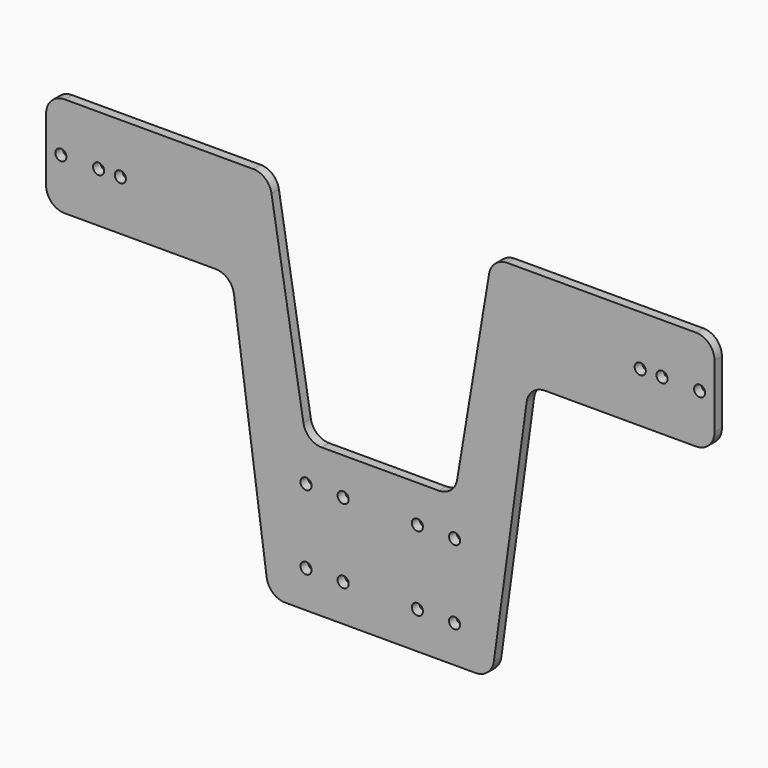
from build123d import *

# Parameters (mm, degrees)
F0_R     = 1.5
F1_DEPTH = 2.5
F2_R     = 5


with BuildPart() as f1:
    # F0 (on Front) → F1 (new body)
    with BuildSketch(Plane.XZ):
        Polygon((-90, -20), (-90, -33.5), (-90, -47), (-40, -47), (-30, -120), (0, -120), (0, -80), (-20, -80), (-30, -20), align=None)
        with Locations((-20, -110)):
            Circle(F0_R, mode=Mode.SUBTRACT)
        with Locations((-10, -110)):
            Circle(F0_R, mode=Mode.SUBTRACT)
        with Locations((-20, -90)):
            Circle(F0_R, mode=Mode.SUBTRACT)
        with Locations((-10, -90)):
            Circle(F0_R, mode=Mode.SUBTRACT)
        with Locations((-86, -33.5)):
            Circle(F0_R, mode=Mode.SUBTRACT)
        with Locations((-75.858, -33.5)):
            Circle(F0_R, mode=Mode.SUBTRACT)
        with Locations((-70, -33.5)):
            Circle(F0_R, mode=Mode.SUBTRACT)
        Polygon((0, -80), (0, -120), (30, -120), (40, -47), (90, -47), (90, -33.5), (90, -20), (30, -20), (20, -80), align=None)
        with Locations((10, -110)):
            Circle(F0_R, mode=Mode.SUBTRACT)
        with Locations((20, -110)):
            Circle(F0_R, mode=Mode.SUBTRACT)
        with Locations((10, -90)):
            Circle(F0_R, mode=Mode.SUBTRACT)
        with Locations((20, -90)):
            Circle(F0_R, mode=Mode.SUBTRACT)
        with Locations((70, -33.5)):
            Circle(F0_R, mode=Mode.SUBTRACT)
        with Locations((75.858, -33.5)):
            Circle(F0_R, mode=Mode.SUBTRACT)
        with Locations((86, -33.5)):
            Circle(F0_R, mode=Mode.SUBTRACT)
    extrude(amount=F1_DEPTH)

    # F2
    f2_edges = [f1.edges().sort_by_distance(p)[0] for p in [
        (-90, -1.25, -20),
        (-90, -1.25, -47),
        (-40, -1.25, -47),
        (-30, -1.25, -120),
        (30, -1.25, -120),
        (40, -1.25, -47),
        (90, -1.25, -47),
        (-30, -1.25, -20),
        (-20, -1.25, -80),
        (30, -1.25, -20),
        (20, -1.25, -80),
        (90, -1.25, -20),
    ]]
    fillet(f2_edges, radius=F2_R)


solid = f1.part
